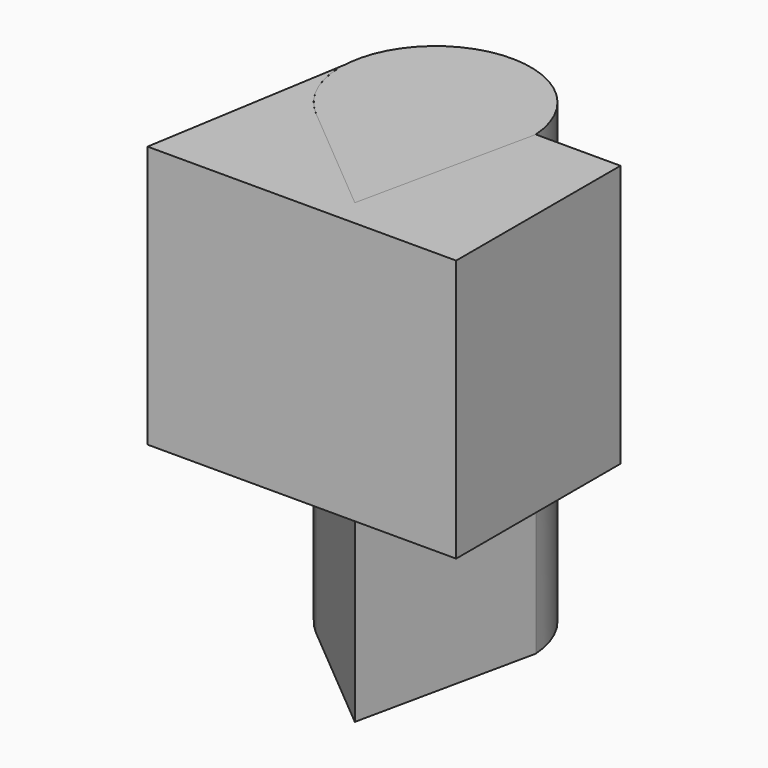
from build123d import *

# Parameters (mm, degrees)
F1_DEPTH = 18.848188
F3_DEPTH = 25.4
F4_DEPTH = 25.4


with BuildPart() as f1:
    # F0 (on Top) → F1 (new body)
    with BuildSketch(Plane.XY):
        with BuildLine():
            Line((-6.880872, -7.164007), (-3.177042, 10.105129))
            ThreePointArc((-3.177042, 10.105129), (-16.559032, 17.696466), (-18.301774, 2.410234))
            Line((-18.301774, 2.410234), (-6.880872, -7.164007))
        make_face()
    extrude(amount=F1_DEPTH)


with BuildPart() as f3:
    # F2 (on face) → F3 (new body)
    with BuildSketch(Plane.XY.offset(18.848188)):
        with BuildLine():
            Line((5.018667, 10.105129), (-3.177042, 10.105129))
            Line((-3.177042, 10.105129), (-6.880872, -7.164007))
            Line((-6.880872, -7.164007), (-18.301774, 2.410234))
            ThreePointArc((-18.301774, 2.410234), (-20.839034, 5.81093), (-21.585046, 9.987758))
            Line((-21.585046, 9.987758), (-24.854667, -9.778981))
            Line((-24.854667, -9.778981), (5.018667, -9.778981))
            Line((5.018667, -9.778981), (5.018667, 10.105129))
        make_face()
    extrude(amount=F3_DEPTH)


with BuildPart() as f4:
    # F1_face (on face) → F4 (new body)
    with BuildSketch(Plane(origin=(-11.883277, 7.786879, 18.848188), x_dir=(1, 0, 0), z_dir=(0, 0, 1))):
        with BuildLine():
            Line((-6.418497, -5.376645), (5.002405, -14.950885))
            Line((5.002405, -14.950885), (8.706235, 2.318251))
            ThreePointArc((8.706235, 2.318251), (-4.675755, 9.909588), (-6.418497, -5.376645))
        make_face()
    extrude(amount=F4_DEPTH)


solid = Compound([f1.part, f3.part, f4.part])
